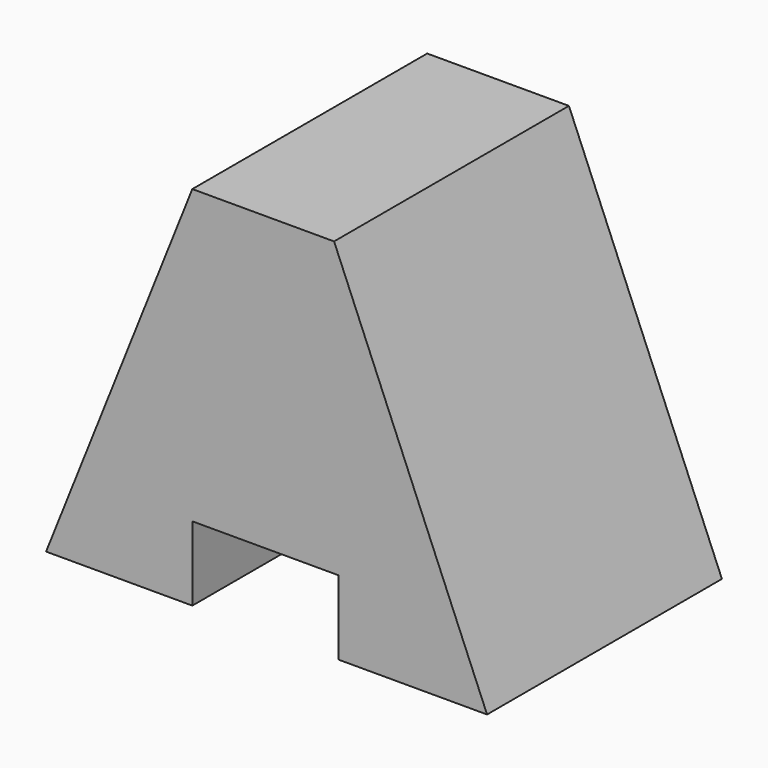
from build123d import *

# Parameters (mm, degrees)
F1_DEPTH = 25.4


with BuildPart() as f1:
    # F0 (on Front) → F1 (new body)
    with BuildSketch(Plane.XZ):
        Polygon((-56.454744, 0), (-43.801095, 0), (-43.801095, 6.424161), (-43.801095, 31.73146), align=None)
        Polygon((-43.801095, 31.73146), (-43.801095, 6.424161), (-31.147446, 6.424161), (-31.536788, 31.73146), align=None)
        Polygon((-31.536788, 31.73146), (-31.147446, 6.424161), (-31.147446, 0), (-18.299125, 0), align=None)
    extrude(amount=F1_DEPTH)


solid = f1.part
